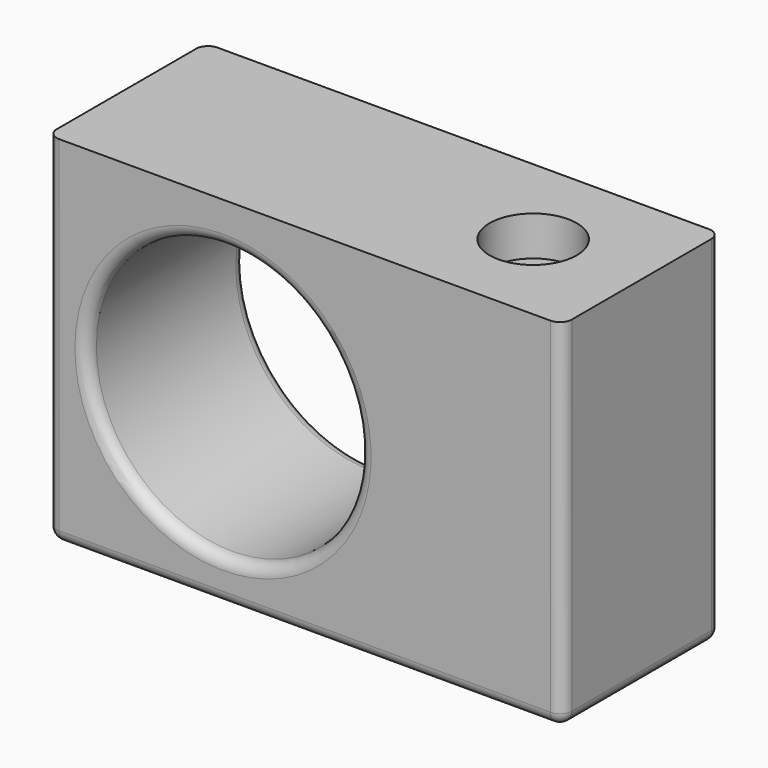
from build123d import *

# Parameters (mm, degrees)
F0_W     = 33.02
F0_H     = 12.7
F0_R     = 2.794
F1_DEPTH = 2.54
F2_W     = 33.02
F2_H     = 12.7
F2_R     = 1.397
F3_DEPTH = 2.54
F4_W     = 33.02
F4_H     = 12.7
F4_R     = 2.794
F5_DEPTH = 17.78
F6_R     = 8.73125
F7_DEPTH = 12.701
F8_R     = 0.762
F9_R     = 0.762
F10_R    = 0.762


with BuildPart() as f1:
    # F0 (on Top) → F1 (new body)
    with BuildSketch(Plane.XY):
        Rectangle(F0_W, F0_H)
        with Locations((9.561962, 0)):
            Circle(F0_R, mode=Mode.SUBTRACT)
    extrude(amount=F1_DEPTH)

    # F2 (on face) → F3 (join)
    with BuildSketch(Plane(origin=(0, 0, 0), x_dir=(1, 0, 0), z_dir=(0, 0, -1))):
        Rectangle(F2_W, F2_H)
        with Locations((9.561962, 0)):
            Circle(F2_R, mode=Mode.SUBTRACT)
    extrude(amount=F3_DEPTH)

    # F4 (on face) → F5 (join)
    with BuildSketch(Plane(origin=(0, 0, -2.54), x_dir=(1, 0, 0), z_dir=(0, 0, -1))):
        Rectangle(F4_W, F4_H)
        with Locations((9.561962, 0)):
            Circle(F4_R, mode=Mode.SUBTRACT)
    extrude(amount=F5_DEPTH)

    # F6 (on face) → F7 (cut, through all)
    with BuildSketch(Plane(origin=(0, 6.35, 0), x_dir=(-1, 0, 0), z_dir=(0, 1, 0))):
        with Locations((5.23875, -8.89)):
            Circle(F6_R)
    extrude(amount=-F7_DEPTH, mode=Mode.SUBTRACT)

    # F8
    f8_edges = [f1.edges().sort_by_distance(p)[0] for p in [
        (3.4925, -6.35, -8.89),
        (3.4925, 6.35, -8.89),
    ]]
    fillet(f8_edges, radius=F8_R)

    # F9
    f9_edges = [f1.edges().sort_by_distance(p)[0] for p in [
        (6.767962, 0, -20.32),
    ]]
    fillet(f9_edges, radius=F9_R)

    # F10
    f10_edges = [f1.edges().sort_by_distance(p)[0] for p in [
        (-16.51, 6.35, -8.89),
        (-16.51, 0, -20.32),
        (-16.51, -6.35, -8.89),
        (0, -6.35, -20.32),
        (0, 6.35, -20.32),
        (16.51, 0, -20.32),
        (16.51, 6.35, -8.89),
        (16.51, -6.35, -8.89),
    ]]
    fillet(f10_edges, radius=F10_R)


solid = f1.part
